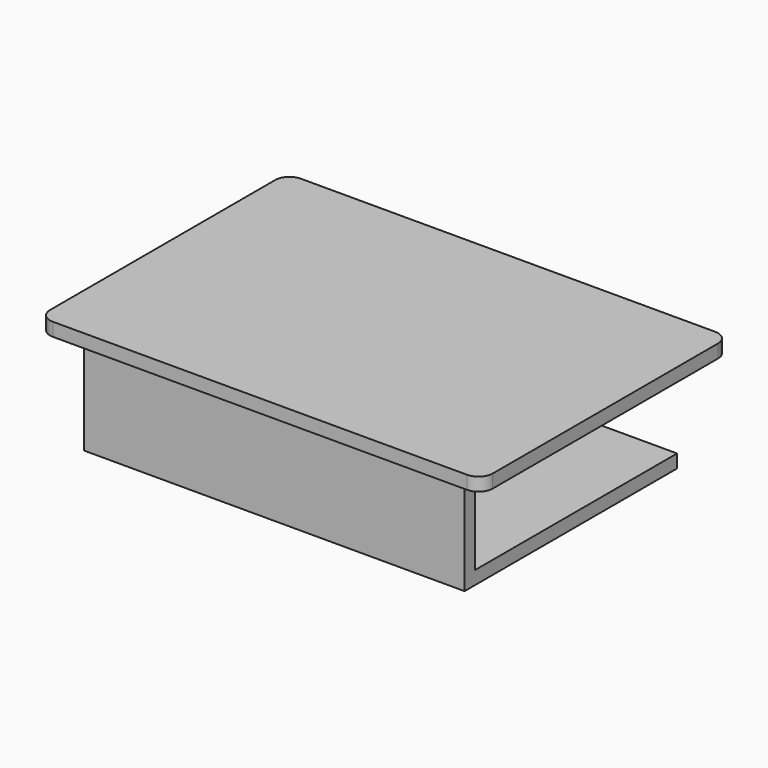
from build123d import *

# Parameters (mm, degrees)
F1_DEPTH  = 19.05
F2_W      = 19.05
F2_H      = 381
F3_DEPTH  = 6.35
F4_W      = 546.1
F4_H      = 19.05
F5_DEPTH  = 6.35
F6_W      = 19.05
F6_H      = 381
F7_DEPTH  = 6.35
F8_W      = 546.1
F8_H      = 19.05
F9_DEPTH  = 127
F10_W     = 546.1
F10_H     = 381
F11_DEPTH = 19.05


with BuildPart() as f1:
    # F0 (on Top) → F1 (new body)
    with BuildSketch(Plane.XY):
        with BuildLine():
            Line((297.552139, 242.154465), (-296.807861, 242.154465))
            ThreePointArc((-296.807861, 242.154465), (-311.176271, 236.202875), (-317.127861, 221.834465))
            Line((-317.127861, 221.834465), (-317.127861, -182.025535))
            ThreePointArc((-317.127861, -182.025535), (-311.176271, -196.393944), (-296.807861, -202.345535))
            Line((-296.807861, -202.345535), (297.552139, -202.345535))
            ThreePointArc((297.552139, -202.345535), (311.920549, -196.393944), (317.872139, -182.025535))
            Line((317.872139, -182.025535), (317.872139, 221.834465))
            ThreePointArc((317.872139, 221.834465), (311.920549, 236.202875), (297.552139, 242.154465))
        make_face()
    extrude(amount=F1_DEPTH)

    # F2 (on face) → F3 (cut)
    with BuildSketch(Plane(origin=(0, 0, 0), x_dir=(1, 0, 0), z_dir=(0, 0, -1))):
        with Locations((-282.202861, -13.554465)):
            Rectangle(F2_W, F2_H)
    extrude(amount=-F3_DEPTH, mode=Mode.SUBTRACT)

    # F4 (on face) → F5 (cut)
    with BuildSketch(Plane(origin=(0, 0, 0), x_dir=(1, 0, 0), z_dir=(0, 0, -1))):
        with Locations((0.372139, 167.420535)):
            Rectangle(F4_W, F4_H)
    extrude(amount=-F5_DEPTH, mode=Mode.SUBTRACT)

    # F6 (on face) → F7 (cut)
    with BuildSketch(Plane(origin=(0, 0, 0), x_dir=(1, 0, 0), z_dir=(0, 0, -1))):
        with Locations((282.947139, -13.554465)):
            Rectangle(F6_W, F6_H)
    extrude(amount=-F7_DEPTH, mode=Mode.SUBTRACT)


with BuildPart() as f9:
    # F8 (on face) → F9 (new body)
    with BuildSketch(Plane(origin=(0, 0, 0), x_dir=(1, 0, 0), z_dir=(0, 0, -1))):
        with Locations((0.372139, 167.420535)):
            Rectangle(F8_W, F8_H)
    extrude(amount=F9_DEPTH)

    # F10 (on face) → F11 (join)
    with BuildSketch(Plane(origin=(0, 0, -127), x_dir=(1, 0, 0), z_dir=(0, 0, -1))):
        with Locations((0.372139, -13.554465)):
            Rectangle(F10_W, F10_H)
    extrude(amount=F11_DEPTH)


solid = Compound([f1.part, f9.part])
